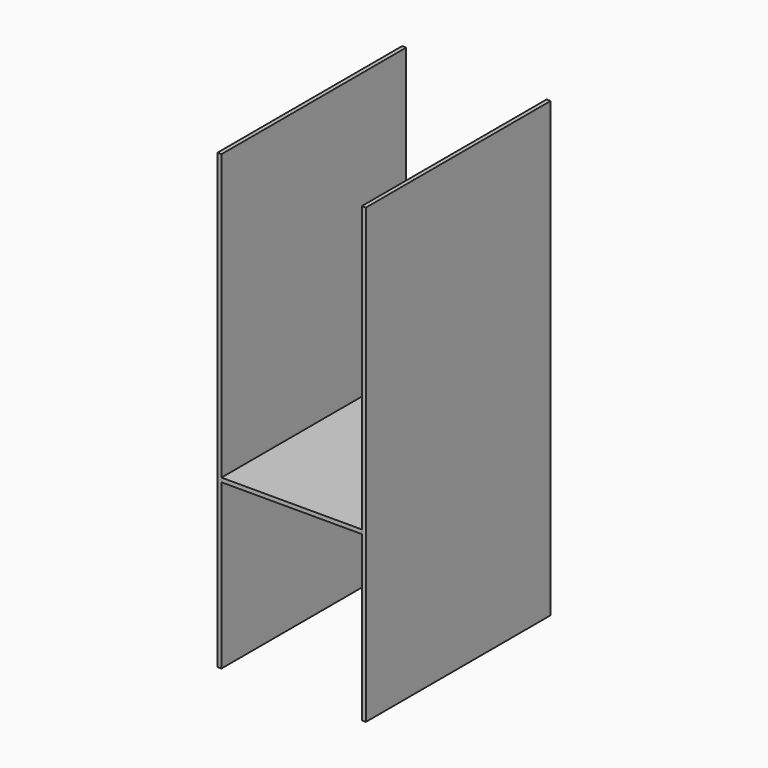
from build123d import *

# Parameters (mm, degrees)
F0_W     = 620
F0_H     = 1020
F1_DEPTH = 18.0548
F2_W     = 1020
F2_H     = 2000
F3_DEPTH = 18


with BuildPart() as f1:
    # F0 (on Top) → F1 (new body)
    with BuildSketch(Plane.XY):
        with Locations((-28.521441, -22.579344)):
            Rectangle(F0_W, F0_H)
    extrude(amount=F1_DEPTH)


with BuildPart() as f3:
    # F2 (on Right) → F3 (new body)
    with BuildSketch(Plane.YZ):
        with Locations((35.751447, 275.459505)):
            Rectangle(F2_W, F2_H)
    extrude(amount=F3_DEPTH)


with BuildPart() as f3_1:
    # F4: moved
    add(f3.part.moved(Location((281.5, -58.3, 0))))


with BuildPart() as f5_1:
    # F5: instance of F3
    add(f3_1.part.mirror(Plane(origin=(-338.521441, -22.579344, 9.0274), x_dir=(0, -1, 0), z_dir=(-1, 0, 0))))


with BuildPart() as f5_1_1:
    # F6: moved
    add(f5_1.part.moved(Location((620, 0, 0))))


solid = Compound([f1.part, f3_1.part, f5_1_1.part])
